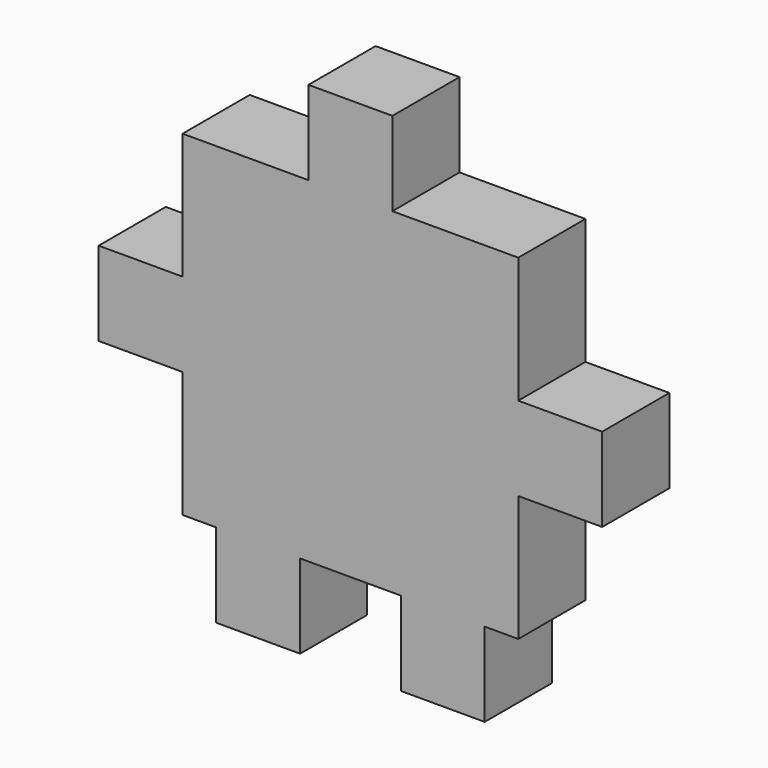
from build123d import *

# Parameters (mm, degrees)
F0_W     = 6.35
F0_H     = 6.35
F1_DEPTH = 6.35


with BuildPart() as f1:
    # F0 (on Front) → F1 (new body)
    with BuildSketch(Plane.XZ):
        Polygon((-34.587686, 38.306355), (-44.112686, 38.306355), (-44.112686, 28.781355), (-44.112686, 22.431355), (-44.112686, 12.906355), (-41.572686, 12.906355), (-35.222686, 12.906355), (-27.602686, 12.906355), (-21.252686, 12.906355), (-18.712686, 12.906355), (-18.712686, 22.431355), (-18.712686, 28.781355), (-18.712686, 38.306355), (-28.237686, 38.306355), align=None)
        with Locations((-31.412686, 41.481355)):
            Rectangle(F0_W, F0_H)
        with Locations((-47.287686, 25.606355)):
            Rectangle(F0_W, F0_H)
        with Locations((-15.537686, 25.606355)):
            Rectangle(F0_W, F0_H)
        with Locations((-38.397686, 9.731355)):
            Rectangle(F0_W, F0_H)
        with Locations((-24.427686, 9.731355)):
            Rectangle(F0_W, F0_H)
    extrude(amount=F1_DEPTH)


solid = f1.part
